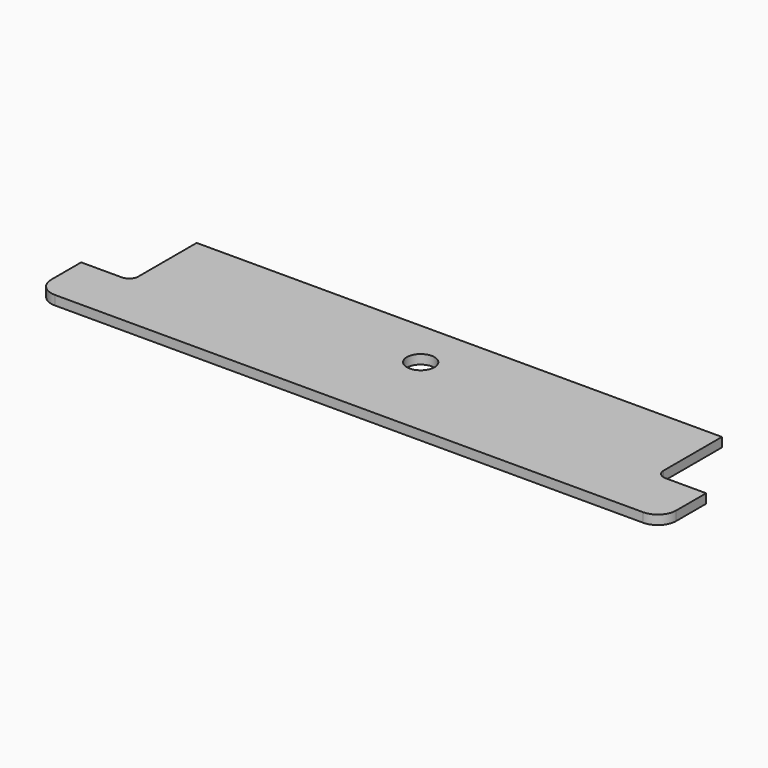
from build123d import *

# Parameters (mm, degrees)
CYLINDER080_R     = 1.5
CYLINDER080_DEPTH = 10
CYLINDER075_R     = 2.579687
CYLINDER075_DEPTH = 56.5
CYLINDER076_R     = 2.579687
CYLINDER076_DEPTH = 55.5
BOX006_W          = 6.35
BOX006_H          = 15
BOX006_DEPTH      = 10
FILLET005_R       = 1
BOX005_W          = 6.35
BOX005_H          = 15
BOX005_DEPTH      = 10
FILLET004_R       = 1
BOX004_W          = 68
BOX004_H          = 15
BOX004_DEPTH      = 1.01
FILLET003_R       = 2


with BuildPart() as shieldcrosshole004:
    # Cylinder080 → Cylinder080 (new body)
    with BuildSketch(Plane(origin=(105, 116, 34), x_dir=(1, 0, 0), z_dir=(0, 0, 1))):
        Circle(CYLINDER080_R)
    extrude(amount=CYLINDER080_DEPTH)


with BuildPart() as threaded027:
    # Cylinder075 → Cylinder075 (new body)
    with BuildSketch(Plane(origin=(73.25, 179.75, 4), x_dir=(1, 0, 0), z_dir=(0, 0, 1))):
        Circle(CYLINDER075_R)
    extrude(amount=CYLINDER075_DEPTH)


with BuildPart() as threaded028:
    # Cylinder076 → Cylinder076 (new body)
    with BuildSketch(Plane(origin=(136.75, 179.75, 4), x_dir=(1, 0, 0), z_dir=(0, 0, 1))):
        Circle(CYLINDER076_R)
    extrude(amount=CYLINDER076_DEPTH)


with BuildPart() as fillet005:
    # Box006 → Box006 (new body)
    with BuildSketch(Plane(origin=(70.075, 175.825, 36), x_dir=(1, 0, 0), z_dir=(0, 0, 1))):
        with Locations((3.175, 7.5)):
            Rectangle(BOX006_W, BOX006_H)
    extrude(amount=BOX006_DEPTH)

    # Fillet005
    fillet005_edges = [fillet005.edges().sort_by_distance(p)[0] for p in [
        (70.075, 175.825, 41),
        (76.425, 175.825, 41),
    ]]
    fillet(fillet005_edges, radius=FILLET005_R)


with BuildPart() as fillet005_1:
    # Fillet005 placement: moved
    add(fillet005.part.moved(Location((63.5, 0, 0))))


with BuildPart() as fusion033:
    # Box005 → Box005 (new body)
    with BuildSketch(Plane(origin=(70.075, 175.825, 36), x_dir=(1, 0, 0), z_dir=(0, 0, 1))):
        with Locations((3.175, 7.5)):
            Rectangle(BOX005_W, BOX005_H)
    extrude(amount=BOX005_DEPTH)

    # Fillet004
    fillet004_edges = [fusion033.edges().sort_by_distance(p)[0] for p in [
        (70.075, 175.825, 41),
        (76.425, 175.825, 41),
    ]]
    fillet(fillet004_edges, radius=FILLET004_R)

    # Fusion033: union Threaded027, Threaded028, Fillet005
    add(threaded027.part)
    add(threaded028.part)
    add(fillet005_1.part)


with BuildPart() as shieldbar003:
    # Box004 → Box004 (new body)
    with BuildSketch(Plane(origin=(71, 169.75, 39), x_dir=(1, 0, 0), z_dir=(0, 0, 1))):
        with Locations((34, 7.5)):
            Rectangle(BOX004_W, BOX004_H)
    extrude(amount=BOX004_DEPTH)

    # Fillet003
    fillet003_edges = [shieldbar003.edges().sort_by_distance(p)[0] for p in [
        (71, 169.75, 39.505),
        (71, 184.75, 39.505),
        (139, 169.75, 39.505),
        (139, 184.75, 39.505),
    ]]
    fillet(fillet003_edges, radius=FILLET003_R)

    # Cut004: cut Fusion033
    add(fusion033.part, mode=Mode.SUBTRACT)


with BuildPart() as shieldbar003_1:
    # Cut004 placement: moved
    add(shieldbar003.part.moved(Location((0, -63.5, 0))))

    # Cut006: cut ShieldCrossHole004
    add(shieldcrosshole004.part, mode=Mode.SUBTRACT)


solid = shieldbar003_1.part
